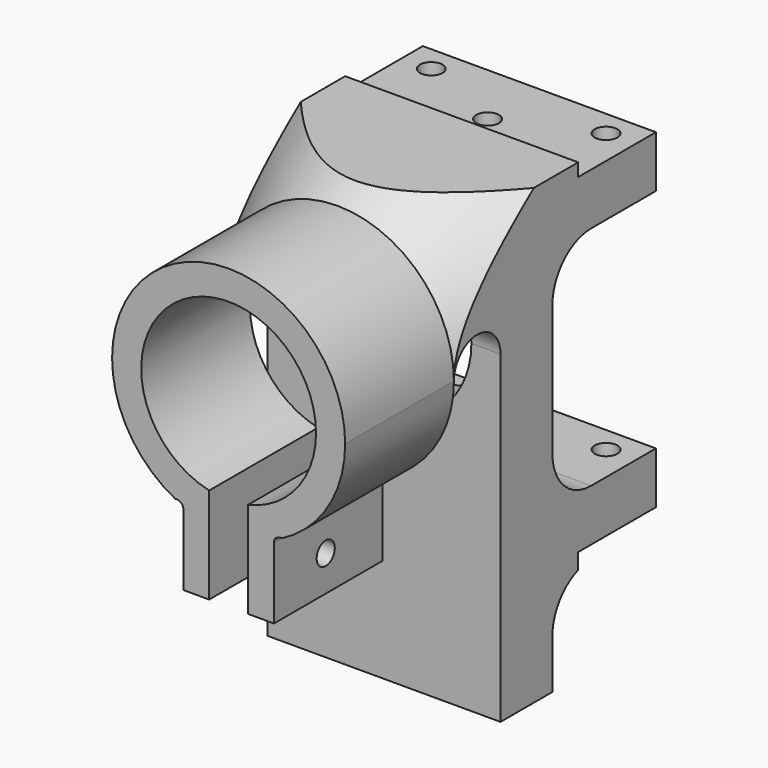
from build123d import *

# Parameters (mm, degrees)
SKETCH021_R                          = 1.75
EXTRUDE005_DEPTH                     = 15
SKETCH020_W                          = 40
SKETCH020_H                          = 16
EXTRUDE003_DEPTH                     = 3
SKETCH016_AS_DRAWN_R                 = 13.5
EXTRUDE001_DEPTH                     = 45
EXTRUDE001_ONTO_SKETCH016_ROLL_ANGLE = 90
SKETCH017_AS_DRAWN_W                 = 6
SKETCH017_AS_DRAWN_H                 = 25
EXTRUDE002_DEPTH                     = 30
EXTRUDE002_ONTO_SKETCH017_ROLL_ANGLE = 90
EXTRUDE006_DEPTH                     = 15
EXTRUDE004_DEPTH                     = 3
SKETCH_R                             = 1.75
EXTRUDE_DEPTH                        = 38
SKETCH014_W                          = 22
SKETCH014_H                          = 20
BOX_W                                = 36
BOX_H                                = 60
BOX_DEPTH                            = 70


with BuildPart() as extrude005:
    # Sketch021 → Extrude005 (new body)
    with BuildSketch(Plane.XY):
        with Locations((-13.5, 56)):
            Circle(SKETCH021_R)
        with Locations((13.5, 56)):
            Circle(SKETCH021_R)
        with Locations((0, 50)):
            Circle(SKETCH021_R)
    extrude(amount=EXTRUDE005_DEPTH)


with BuildPart() as extrude005_1:
    # Extrude005 placement: moved
    add(extrude005.part.moved(Location((0, 0, 13))))


with BuildPart() as extrude003:
    # Sketch020 → Extrude003 (new body)
    with BuildSketch(Plane.XY):
        with Locations((0, 53)):
            Rectangle(SKETCH020_W, SKETCH020_H)
    extrude(amount=EXTRUDE003_DEPTH)


with BuildPart() as extrude003_1:
    # Extrude003 placement: moved
    add(extrude003.part.moved(Location((0, 0, 68))))


with BuildPart() as extrude_tube_hole:
    # Sketch016 as drawn → Extrude001 (new)
    with BuildSketch(Plane.XY):
        with Locations((0, 50)):
            Circle(SKETCH016_AS_DRAWN_R)
    extrude(amount=-EXTRUDE001_DEPTH)


with BuildPart() as extrude_tube_hole_1:
    # Extrude001 onto Sketch016 roll: moved
    add(extrude_tube_hole.part.rotate(Axis((0, 0, 0), (1, 0, 0)), EXTRUDE001_ONTO_SKETCH016_ROLL_ANGLE))


with BuildPart() as extrude_tube_hole_2:
    # Extrude001 onto Sketch016 placement: moved
    add(extrude_tube_hole_1.part)


with BuildPart() as extrude_tube_hole_3:
    # Extrude001 placement: moved
    add(extrude_tube_hole_2.part.moved(Location((0, -1, 0))))


with BuildPart() as arc_ext:
    # Sketch017 as drawn → Extrude002 (new)
    with BuildSketch(Plane.XY):
        with BuildLine():
            Line((8, 34), (20, 34))
            Line((20, 34), (20, 20))
            Line((20, 20), (7, 20))
            Line((7, 20), (7, 33))
            ThreePointArc((8, 34), (7.292893, 33.707107), (7, 33))
        make_face()
        with BuildLine():
            Line((-8, 34), (-20, 34))
            Line((-20, 34), (-20, 20))
            Line((-20, 20), (-7, 20))
            Line((-7, 20), (-7, 33))
            ThreePointArc((-7, 33), (-7.292893, 33.707107), (-8, 34))
        make_face()
        with Locations((0, 27.5)):
            Rectangle(SKETCH017_AS_DRAWN_W, SKETCH017_AS_DRAWN_H)
    extrude(amount=-EXTRUDE002_DEPTH)


with BuildPart() as arc_ext_1:
    # Extrude002 onto Sketch017 roll: moved
    add(arc_ext.part.rotate(Axis((0, 0, 0), (1, 0, 0)), EXTRUDE002_ONTO_SKETCH017_ROLL_ANGLE))


with BuildPart() as arc_ext_2:
    # Extrude002 onto Sketch017 placement: moved
    add(arc_ext_1.part)


with BuildPart() as arc_ext_3:
    # Extrude002 placement: moved
    add(arc_ext_2.part.moved(Location((0, -1, 0))))


with BuildPart() as extrude006:
    # Sketch021 → Extrude006 (new body)
    with BuildSketch(Plane.XY):
        with Locations((-13.5, 56)):
            Circle(SKETCH021_R)
        with Locations((13.5, 56)):
            Circle(SKETCH021_R)
        with Locations((0, 50)):
            Circle(SKETCH021_R)
    extrude(amount=EXTRUDE006_DEPTH)


with BuildPart() as extrude006_1:
    # Extrude006 placement: moved
    add(extrude006.part.moved(Location((0, 0, 58))))


with BuildPart() as extrude004:
    # Sketch020 → Extrude004 (new body)
    with BuildSketch(Plane.XY):
        with Locations((0, 53)):
            Rectangle(SKETCH020_W, SKETCH020_H)
    extrude(amount=EXTRUDE004_DEPTH)


with BuildPart() as extrude004_1:
    # Extrude004 placement: moved
    add(extrude004.part.moved(Location((0, 0, 14))))


with BuildPart() as fusion001:
    # Sketch → Extrude (new body)
    with BuildSketch(Plane.YZ):
        with Locations((10, 27.5)):
            Circle(SKETCH_R)
        with BuildLine():
            Line((61, 60), (47.5, 60))
            ThreePointArc((47.5, 60), (42.196699, 57.803301), (40, 52.5))
            Line((40, 52.5), (40, 32.5))
            ThreePointArc((40, 32.5), (42.196699, 27.196699), (47.5, 25))
            Line((47.5, 25), (61, 25))
            Line((61, 25), (61, 60))
        make_face()
        with BuildLine():
            Line((61, 15), (47.5, 15))
            ThreePointArc((47.5, 15), (42.196699, 12.803301), (40, 7.5))
            Line((40, 7.5), (40, -2))
            Line((40, -2), (61, -2))
            Line((61, -2), (61, 15))
        make_face()
        with BuildLine():
            Line((30, 50), (30, -2))
            Line((30, -2), (-2, -2))
            Line((-2, -2), (-2, 22))
            Line((-2, 22), (21, 22))
            Line((21, 22), (21, 50))
            ThreePointArc((30, 50), (25.5, 54.5), (21, 50))
        make_face()
    extrude(amount=EXTRUDE_DEPTH)


with BuildPart() as fusion001_1:
    # Extrude placement: moved
    add(fusion001.part.moved(Location((-19, 0, 0))))

    # Fusion001: union Extrude005, Extrude003, Extrude-tube-hole, arc-ext, Extrude006, Extrude004
    add(extrude005_1.part)
    add(extrude003_1.part)
    add(extrude_tube_hole_3.part)
    add(arc_ext_3.part)
    add(extrude006_1.part)
    add(extrude004_1.part)


with BuildPart() as sweep_body:
    # Sweep: sweep along a path in Sketch015
    with BuildLine(Plane.XZ) as sweep_path:
        ThreePointArc((4, 40.834849), (0, 60), (-4, 40.834849))
    # Sketch014 → Sweep (sweep)
    with BuildSketch(Plane(origin=(0, -1, 0), x_dir=(0, 1, 0), z_dir=(1, 0, 0))):
        with Locations((11, 78)):
            Rectangle(SKETCH014_W, SKETCH014_H)
    sweep(path=sweep_path.line)


with BuildPart() as fusion:
    # Sweep001: sweep along a path in Sketch019
    with BuildLine(Plane.XZ) as sweep001_path:
        ThreePointArc((10, 50), (0, 60), (-10, 50))
    # Sketch018 → Sweep001 (sweep)
    with BuildSketch(Plane(origin=(0, -1, 0), x_dir=(0, 1, 0), z_dir=(1, 0, 0))):
        Polygon((22, 68), (0, 68), (82.621778, 103), align=None)
    sweep(path=sweep001_path.line)

    # Fusion: union Sweep body
    add(sweep_body.part)


with BuildPart() as cut001:
    # Box → Box (new body)
    with BuildSketch(Plane(origin=(-18, 0, 0), x_dir=(1, 0, 0), z_dir=(0, 0, 1))):
        with Locations((18, 30)):
            Rectangle(BOX_W, BOX_H)
    extrude(amount=BOX_DEPTH)

    # Cut: cut Fusion
    add(fusion.part, mode=Mode.SUBTRACT)

    # Cut001: cut Fusion001
    add(fusion001_1.part, mode=Mode.SUBTRACT)


solid = cut001.part
